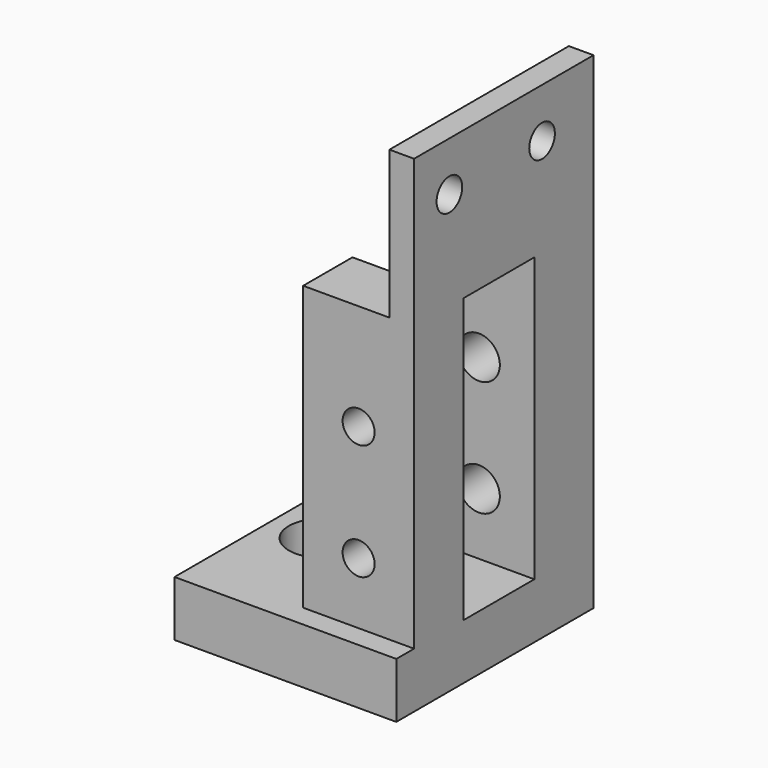
from build123d import *

# Parameters (mm, degrees)
SKETCH_W        = 18
SKETCH_H        = 20
PAD_DEPTH       = 4.5
SKETCH001_W     = 9
SKETCH001_H     = 5
PAD001_DEPTH    = 23
SKETCH002_W     = 9
SKETCH002_H     = 6
PAD002_DEPTH    = 23
SKETCH004_W     = 2
SKETCH004_H     = 6
SKETCH004_H_2   = 5
PAD003_DEPTH    = 12
SKETCH005_R     = 1.3
POCKET_DEPTH    = 25
SKETCH007_W     = 2
SKETCH007_H     = 12
PAD004_DEPTH    = 7.2
SKETCH008_R     = 1.3
POCKET001_DEPTH = 5
COPYSKETCH009_R = 1.7
POCKET002_DEPTH = 5
SKETCH010_R     = 2.7
POCKET003_DEPTH = 2.7
SKETCH011_R     = 1.7
POCKET004_DEPTH = 7


with BuildPart() as part:
    # Sketch → Pad (new body)
    with BuildSketch(Plane.XY):
        Rectangle(SKETCH_W, SKETCH_H)
    extrude(amount=PAD_DEPTH)

    # Sketch001 (on Face6 of Pad) → Pad001 (join)
    with BuildSketch(Plane.XY.offset(4.5)):
        with Locations((4.5, -5.7)):
            Rectangle(SKETCH001_W, SKETCH001_H)
    extrude(amount=PAD001_DEPTH)

    # Sketch002 (on Face5 of Pad001) → Pad002 (join)
    with BuildSketch(Plane.XY.offset(4.5)):
        with Locations((4.5, 7)):
            Rectangle(SKETCH002_W, SKETCH002_H)
    extrude(amount=PAD002_DEPTH)

    # Sketch004 (on Face15 of Pad002) → Pad003 (join)
    with BuildSketch(Plane.XY.offset(27.5)):
        with Locations((8, 7)):
            Rectangle(SKETCH004_W, SKETCH004_H)
        with Locations((8, -5.7)):
            Rectangle(SKETCH004_W, SKETCH004_H_2)
    extrude(amount=PAD003_DEPTH)

    # Sketch005 (on Face10 of Pad003) → Pocket (cut)
    with BuildSketch(Plane.XZ.offset(8.2)):
        with Locations((4.5, 18.9)):
            Circle(SKETCH005_R)
        with Locations((4.5, 9.5)):
            Circle(SKETCH005_R)
    extrude(amount=-POCKET_DEPTH, mode=Mode.SUBTRACT)

    # Sketch007 → Pad004 (join)
    with BuildSketch(Plane.XZ.offset(-4)):
        with Locations((8, 33.5)):
            Rectangle(SKETCH007_W, SKETCH007_H)
    extrude(amount=PAD004_DEPTH)

    # Sketch008 (on Face31 of Pad004) → Pocket001 (cut)
    with BuildSketch(Plane(origin=(7, 0, 0), x_dir=(0, -1, 0), z_dir=(-1, 0, 0))):
        with Locations((-4.782348, 35.5)):
            Circle(SKETCH008_R)
        with Locations((4.617652, 35.5)):
            Circle(SKETCH008_R)
    extrude(amount=-POCKET001_DEPTH, mode=Mode.SUBTRACT)

    # CopySketch009 → Pocket002 (cut)
    with BuildSketch(Plane.XY.offset(4.5)):
        with Locations((-5.02174, 0)):
            Circle(COPYSKETCH009_R)
    extrude(amount=-POCKET002_DEPTH, mode=Mode.SUBTRACT)

    # Sketch010 (on Face5 of Pocket002) → Pocket003 (cut)
    with BuildSketch(Plane.XY.offset(4.5)):
        with Locations((-5.02174, 0)):
            Circle(SKETCH010_R)
    extrude(amount=-POCKET003_DEPTH, mode=Mode.SUBTRACT)

    # Sketch011 (on Face6 of Pocket003) → Pocket004 (cut)
    with BuildSketch(Plane(origin=(0, 10, 0), x_dir=(-1, 0, 0), z_dir=(0, 1, 0))):
        with Locations((-4.5, 18.9)):
            Circle(SKETCH011_R)
        with Locations((-4.5, 9.5)):
            Circle(SKETCH011_R)
    extrude(amount=-POCKET004_DEPTH, mode=Mode.SUBTRACT)


solid = part.part
